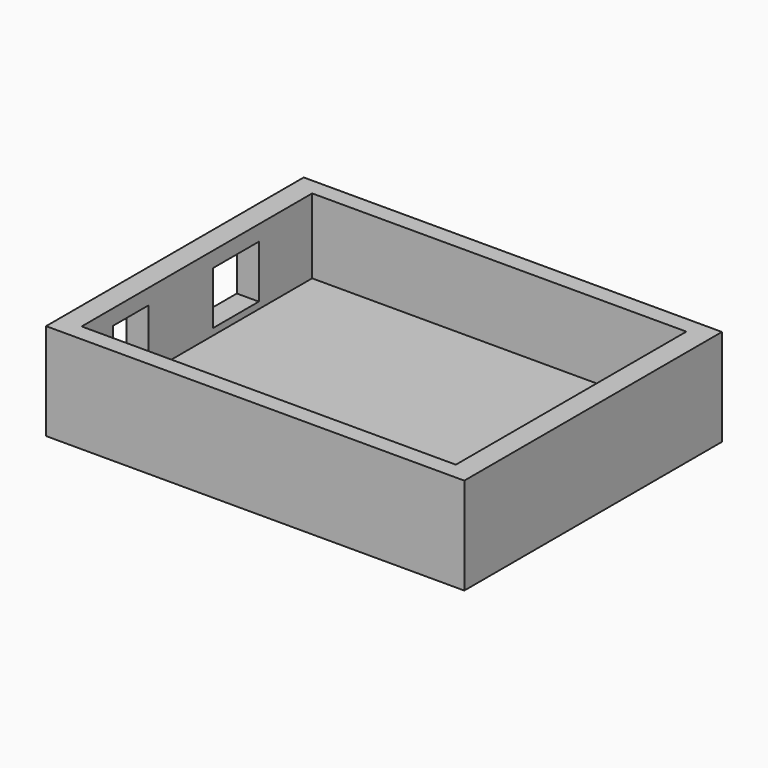
from build123d import *

# Parameters (mm, degrees)
F1_W     = 95.06
F1_H     = 73.2
F2_DEPTH = 22
F3_W     = 85.06
F3_H     = 65.4996002525
F4_DEPTH = 17
F5_W     = 13
F5_H     = 12
F6_DEPTH = 5
F5_W_2   = 10
F7_DEPTH = 5


with BuildPart() as f2:
    # F1 (on Top) → F2 (new body)
    with BuildSketch(Plane.XY):
        with Locations((-6.269495101, -12.3295125008)):
            Rectangle(F1_W, F1_H)
    extrude(amount=F2_DEPTH)

    # F3 (on face) → F4 (cut)
    with BuildSketch(Plane.XY.offset(22)):
        with Locations((-6.269495101, -12.3295125008)):
            Rectangle(F3_W, F3_H)
    extrude(amount=-F4_DEPTH, mode=Mode.SUBTRACT)

    # F5 (on face) → F6 (cut)
    with BuildSketch(Plane(origin=(-53.799495101, 0, 0), x_dir=(0, -1, 0), z_dir=(-1, 0, 0))):
        with Locations((1.2295125008, 12.5)):
            Rectangle(F5_W, F5_H)
    extrude(amount=-F6_DEPTH, mode=Mode.SUBTRACT)

    # F5 (on face) → F7 (cut)
    with BuildSketch(Plane(origin=(-53.799495101, 0, 0), x_dir=(0, -1, 0), z_dir=(-1, 0, 0))):
        with Locations((31.1295125008, 12.5)):
            Rectangle(F5_W_2, F5_H)
    extrude(amount=-F7_DEPTH, mode=Mode.SUBTRACT)


solid = f2.part
